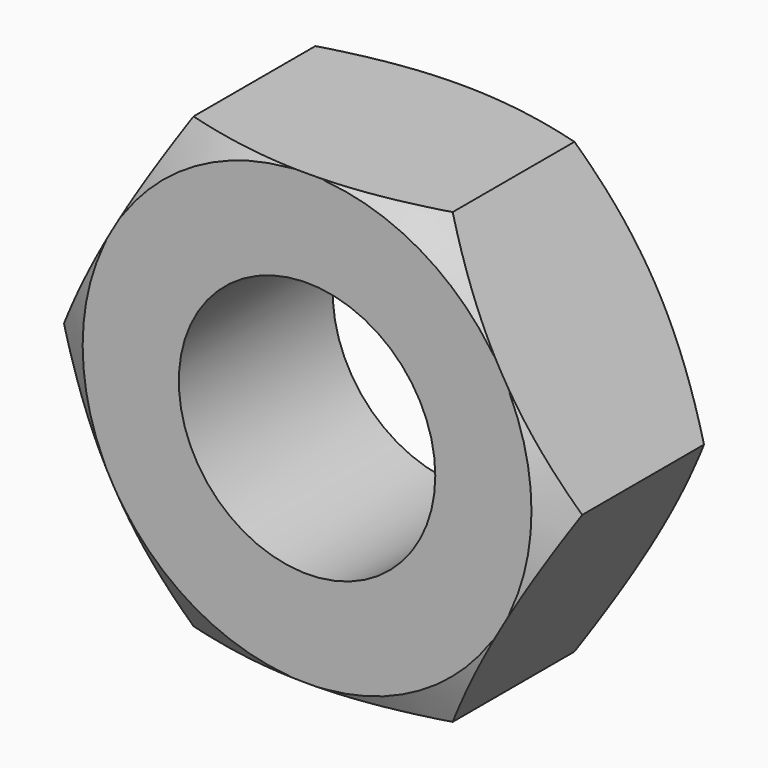
from build123d import *

# Parameters (mm, degrees)
F0_R     = 2
F1_DEPTH = 3


with BuildPart() as f1:
    # F0 (on Front) → F1 (new body)
    with BuildSketch(Plane.XZ):
        Polygon((2.020726, 3.5), (-2.020726, 3.5), (-4.041452, 0), (-2.020726, -3.5), (2.020726, -3.5), (4.041452, 0), align=None)
        Circle(F0_R, mode=Mode.SUBTRACT)
    extrude(amount=F1_DEPTH)

    # F2 (on Right) → F3 (revolve, cut)
    with BuildSketch(Plane.YZ):
        Polygon((0, 4.291639), (-0.457053, 4.291639), (0, 3.5), align=None)
        Polygon((-2.542947, 4.291639), (-3, 4.291639), (-3, 3.5), align=None)
    revolve(axis=Axis((0, -2.512997, 0), (0, -1, 0)), mode=Mode.SUBTRACT)


solid = f1.part
